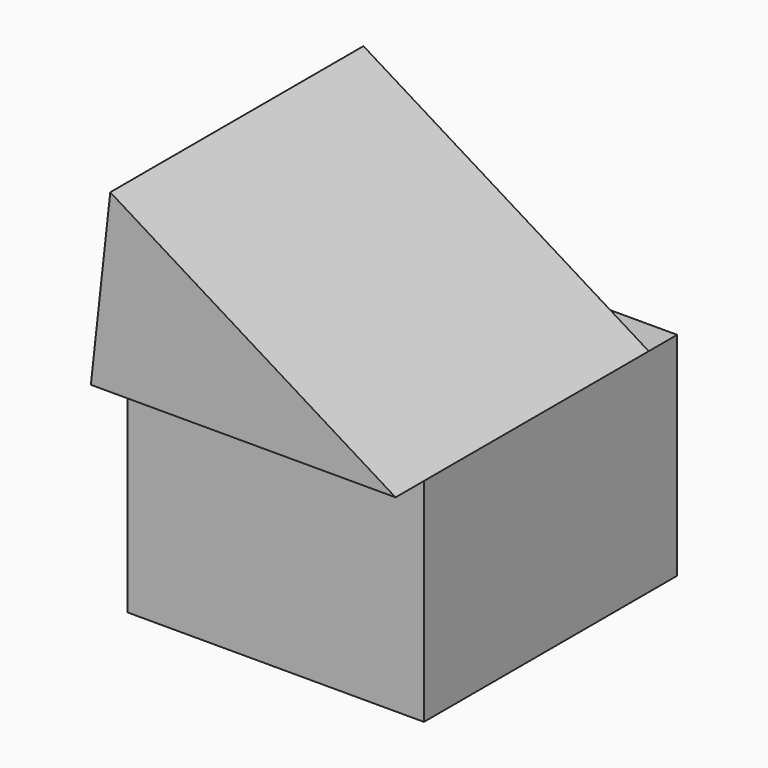
from build123d import *

# Parameters (mm, degrees)
F0_W          = 95.4247708432
F0_H          = 68.2654082775
F1_DEPTH      = 101.854
F3_DEPTH      = 90.424
F3_DEPTH_BACK = 11.43


with BuildPart() as f1:
    # F0 (on Front) → F1 (new body)
    with BuildSketch(Plane.XZ):
        with Locations((43.7975230161, -34.1327041388)):
            Rectangle(F0_W, F0_H)
    extrude(amount=F1_DEPTH)

    # F2 (on face) → F3 (join, two sides)
    with BuildSketch(Plane.XZ.offset(101.854)) as f3_sk:
        Polygon((-0.2897456373, 56.5875391827), (-6.536422763, 0), (91.5099084377, 0), align=None)
    extrude(amount=-F3_DEPTH)
    extrude(f3_sk.sketch, amount=F3_DEPTH_BACK)


solid = f1.part
